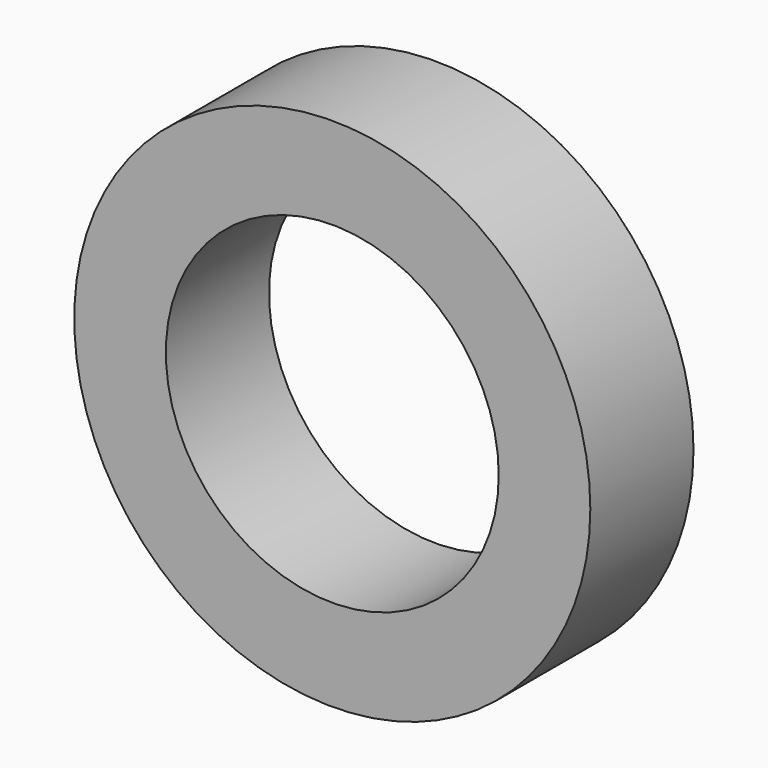
from build123d import *

# Parameters (mm, degrees)
F0_R     = 76.231102
F0_R_2   = 49.173099
F1_DEPTH = 19.05


with BuildPart() as f1:
    # F0 (on Front) → F1 (new body, symmetric)
    with BuildSketch(Plane.XZ):
        Circle(F0_R)
        Circle(F0_R_2, mode=Mode.SUBTRACT)
        Circle(F0_R)
        Circle(F0_R_2, mode=Mode.SUBTRACT)
    extrude(amount=F1_DEPTH, both=True)


solid = f1.part
